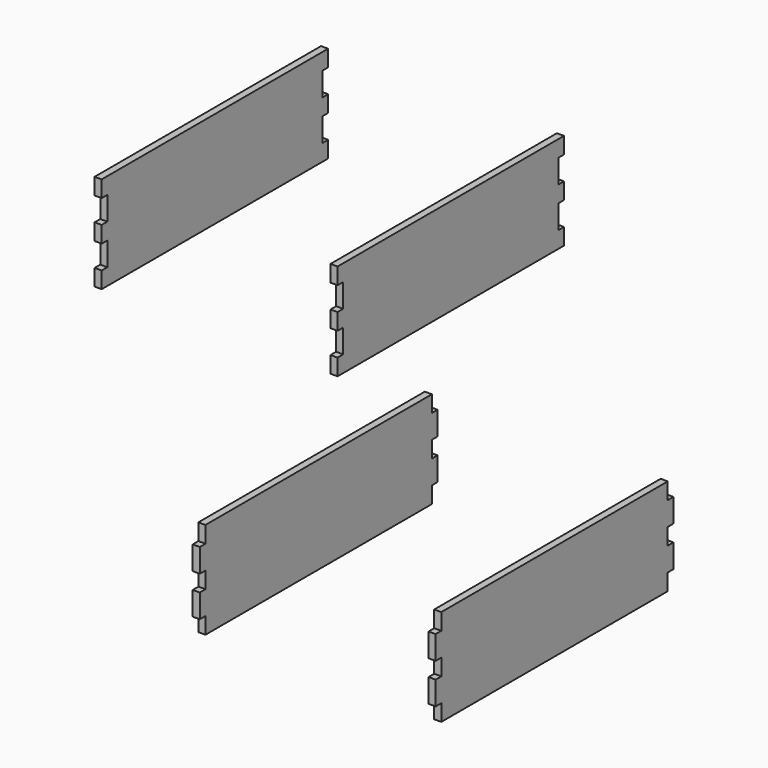
from build123d import *

# Parameters (mm, degrees)
F1_DEPTH = 1.5


with BuildPart() as f1:
    # F0 (on Right) → F1 (new body, symmetric)
    with BuildSketch(Plane.YZ):
        Polygon((0, 7), (0, 0), (120, 0), (120, 7), (117, 7), (117, 17), (120, 17), (120, 24), (117, 24), (117, 34), (120, 34), (120, 41), (0, 41), (0, 34), (3, 34), (3, 24), (0, 24), (0, 17), (3, 17), (3, 7), align=None)
    extrude(amount=F1_DEPTH, both=True)


with BuildPart() as f1b:
    # F0 (on Right) → F1, piece 2 (new body, symmetric)
    with BuildSketch(Plane.YZ):
        Polygon((-73, -61), (-70, -61), (-70, -68), (50, -68), (50, -61), (53, -61), (53, -51), (50, -51), (50, -44), (53, -44), (53, -34), (50, -34), (50, -27), (-70, -27), (-70, -34), (-73, -34), (-73, -44), (-70, -44), (-70, -51), (-73, -51), align=None)
    extrude(amount=F1_DEPTH, both=True)


with BuildPart() as f2_1:
    # F2: copy of F1b
    add(f1b.part.moved(Location((100, 0, 0))))


with BuildPart() as f3_1:
    # F3: copy of F1
    add(f1.part.moved(Location((-100, 0, 0))))


solid = Compound([f1.part, f1b.part, f2_1.part, f3_1.part])
